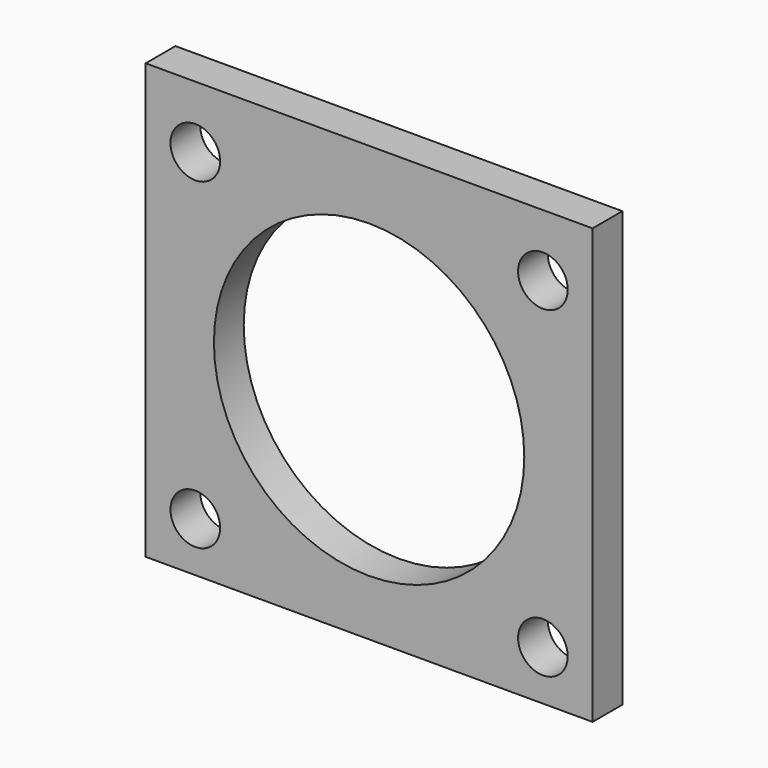
from build123d import *

# Parameters (mm, degrees)
F0_W     = 36
F0_H     = 35
F0_R     = 2
F0_R_2   = 15
F0_R_3   = 12.5
F1_DEPTH = 3


with BuildPart() as f1:
    # F0 (on Front) → F1 (new body)
    with BuildSketch(Plane.XZ):
        with Locations((0, 0.5)):
            Rectangle(F0_W, F0_H)
        with Locations((-14, -13)):
            Circle(F0_R, mode=Mode.SUBTRACT)
        with Locations((14, -13)):
            Circle(F0_R, mode=Mode.SUBTRACT)
        Circle(F0_R_2, mode=Mode.SUBTRACT)
        with Locations((-14, 13)):
            Circle(F0_R, mode=Mode.SUBTRACT)
        with Locations((14, 13)):
            Circle(F0_R, mode=Mode.SUBTRACT)
        Circle(F0_R_2)
        Circle(F0_R_3, mode=Mode.SUBTRACT)
    extrude(amount=-F1_DEPTH)


solid = f1.part
